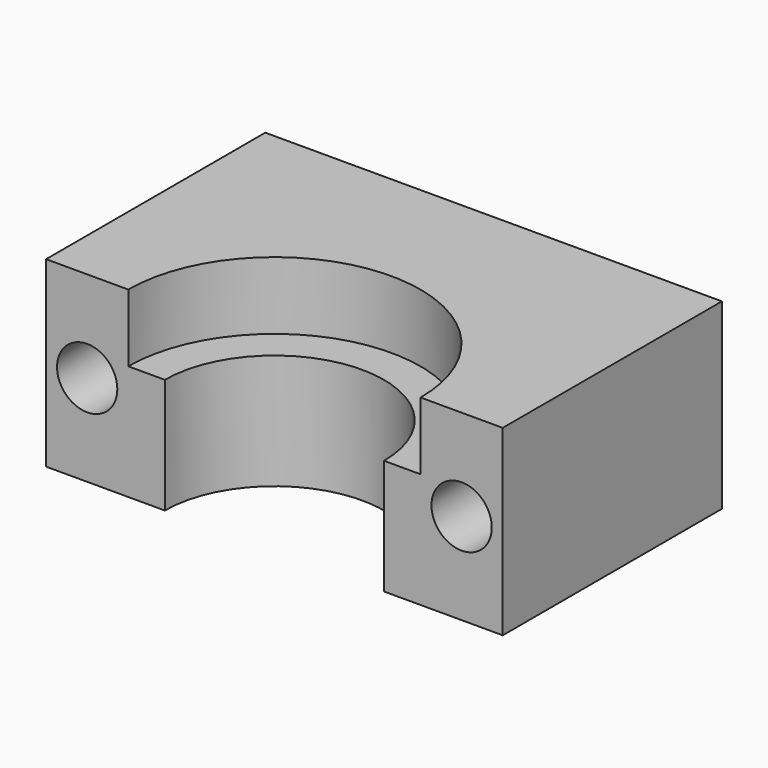
from build123d import *

# Parameters (mm, degrees)
F1_DEPTH = 10
F2_DEPTH = 6.3
F3_R     = 1.65
F4_DEPTH = 25


with BuildPart() as f1:
    # F0 (on Top) → F1 (new body)
    with BuildSketch(Plane.XY):
        with BuildLine():
            ThreePointArc((4.5, 0), (12.5, 8), (20.5, 0))
            Line((20.5, 0), (25, 0))
            Line((25, 0), (25, 15))
            Line((25, 15), (0, 15))
            Line((0, 15), (0, 0))
            Line((0, 0), (4.5, 0))
        make_face()
    extrude(amount=F1_DEPTH)

    # F0 (on Top) → F2 (join)
    with BuildSketch(Plane.XY):
        with BuildLine():
            ThreePointArc((6.5, 0), (12.5, 6), (18.5, 0))
            Line((18.5, 0), (20.5, 0))
            ThreePointArc((20.5, 0), (12.5, 8), (4.5, 0))
            Line((4.5, 0), (6.5, 0))
        make_face()
    extrude(amount=F2_DEPTH)

    # F3 (on face) → F4 (cut)
    with BuildSketch(Plane(origin=(0, 15, 0), x_dir=(-1, 0, 0), z_dir=(0, 1, 0))):
        with Locations((-22.75, 5)):
            Circle(F3_R)
        with BuildLine():
            ThreePointArc((-0.6, 5), (-2.25, 6.65), (-3.9, 5))
            ThreePointArc((-3.9, 5), (-2.25, 3.35), (-0.6, 5))
        make_face()
    extrude(amount=-F4_DEPTH, mode=Mode.SUBTRACT)


solid = f1.part
